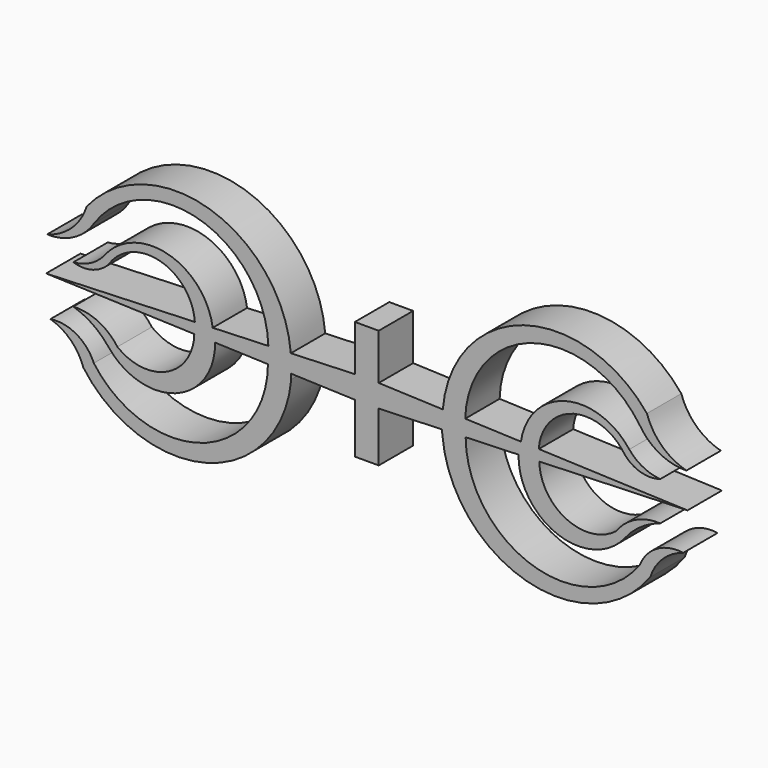
from build123d import *

# Parameters (mm, degrees)
F1_DEPTH = 6.35


with BuildPart() as f1:
    # F0 (on Front) → F1 (new body)
    with BuildSketch(Plane.XZ):
        with BuildLine():
            ThreePointArc((-40.265948, 9.664616), (-24.650693, 15.197856), (-14.536763, 2.076829))
            Line((-14.536763, 2.076829), (-11.225032, 2.202881))
            ThreePointArc((-11.225032, 2.202881), (-23.159816, 17.038607), (-41.370623, 11.479438))
            ThreePointArc((-41.370623, 11.479438), (-43.583964, 7.971244), (-47.209617, 5.956065))
            ThreePointArc((-47.209617, 5.956065), (-43.24405, 6.885906), (-40.265948, 9.664616))
        make_face()
        Polygon((-11.225032, 2.202881), (-14.536763, 2.076829), (-22.76192, 1.763761), (-25.398378, 1.663411), (-47.367427, 0.827219), (-25.479827, 0.062477), (-22.414305, -0.044631), (-14.600246, -0.31765), (-11.163942, -0.437713), (-1.760149, -0.766277), (-1.760149, -8.163029), (1.760149, -8.163029), (1.760149, -0.766277), (11.09894, -0.439984), (14.600246, -0.31765), (22.414305, -0.044631), (25.479827, 0.062477), (47.367427, 0.827219), (25.398378, 1.663411), (22.76192, 1.763761), (14.536763, 2.076829), (11.225032, 2.202881), (1.760149, 2.563136), (1.760149, 9.353689), (-1.760149, 9.353689), (-1.760149, 2.563136), align=None)
        with BuildLine():
            Line((-25.398378, 1.663411), (-22.76192, 1.763761))
            ThreePointArc((-22.76192, 1.763761), (-29.366884, 9.194916), (-38.766749, 5.956065))
            ThreePointArc((-38.766749, 5.956065), (-40.814321, 4.307167), (-43.343257, 3.588905))
            ThreePointArc((-43.343257, 3.588905), (-40.528857, 3.527128), (-38.135506, 5.009201))
            ThreePointArc((-38.135506, 5.009201), (-30.561143, 7.926678), (-25.398378, 1.663411))
        make_face()
        with BuildLine():
            Line((-22.414305, -0.044631), (-25.479827, 0.062477))
            ThreePointArc((-25.479827, 0.062477), (-29.496095, -6.134913), (-36.833337, -5.296501))
            ThreePointArc((-36.833337, -5.296501), (-39.686114, -2.89611), (-43.343257, -2.171184))
            ThreePointArc((-43.343257, -2.171184), (-40.465201, -3.562838), (-38.135506, -5.752001))
            ThreePointArc((-38.135506, -5.752001), (-28.228189, -8.536087), (-22.414305, -0.044631))
        make_face()
        with BuildLine():
            ThreePointArc((41.370623, 11.479438), (23.159816, 17.038607), (11.225032, 2.202881))
            Line((11.225032, 2.202881), (14.536763, 2.076829))
            ThreePointArc((14.536763, 2.076829), (24.650693, 15.197856), (40.265948, 9.664616))
            ThreePointArc((40.265948, 9.664616), (43.24405, 6.885906), (47.209617, 5.956065))
            ThreePointArc((47.209617, 5.956065), (43.583964, 7.971244), (41.370623, 11.479438))
        make_face()
        with BuildLine():
            Line((-11.163942, -0.437713), (-14.600246, -0.31765))
            ThreePointArc((-14.600246, -0.31765), (-24.471093, -13.769039), (-40.317842, -8.548501))
            ThreePointArc((-40.317842, -8.548501), (-42.887794, -5.609688), (-46.726819, -4.900348))
            ThreePointArc((-46.726819, -4.900348), (-43.710466, -6.671359), (-41.858114, -9.638456))
            ThreePointArc((-41.858114, -9.638456), (-23.572679, -16.078256), (-11.163942, -1.18358))
            Line((-11.163942, -1.18358), (-11.163942, -0.437713))
        make_face()
        with BuildLine():
            ThreePointArc((38.766749, 5.956065), (29.366884, 9.194916), (22.76192, 1.763761))
            Line((22.76192, 1.763761), (25.398378, 1.663411))
            ThreePointArc((25.398378, 1.663411), (30.561143, 7.926678), (38.135506, 5.009201))
            ThreePointArc((38.135506, 5.009201), (40.528857, 3.527128), (43.343257, 3.588905))
            ThreePointArc((43.343257, 3.588905), (40.814321, 4.307167), (38.766749, 5.956065))
        make_face()
        with BuildLine():
            ThreePointArc((36.833337, -5.296501), (29.496095, -6.134913), (25.479827, 0.062477))
            Line((25.479827, 0.062477), (22.414305, -0.044631))
            ThreePointArc((22.414305, -0.044631), (28.228189, -8.536087), (38.135506, -5.752001))
            ThreePointArc((38.135506, -5.752001), (40.465201, -3.562838), (43.343257, -2.171184))
            ThreePointArc((43.343257, -2.171184), (39.686114, -2.89611), (36.833337, -5.296501))
        make_face()
        with BuildLine():
            Line((14.600246, -0.31765), (11.09894, -0.439984))
            Line((11.09894, -0.439984), (11.163942, -1.18358))
            ThreePointArc((11.163942, -1.18358), (23.572679, -16.078256), (41.858114, -9.638456))
            ThreePointArc((41.858114, -9.638456), (43.710466, -6.671359), (46.726819, -4.900348))
            ThreePointArc((46.726819, -4.900348), (42.887794, -5.609688), (40.317842, -8.548501))
            ThreePointArc((40.317842, -8.548501), (24.471093, -13.769039), (14.600246, -0.31765))
        make_face()
    extrude(amount=F1_DEPTH)


solid = f1.part
